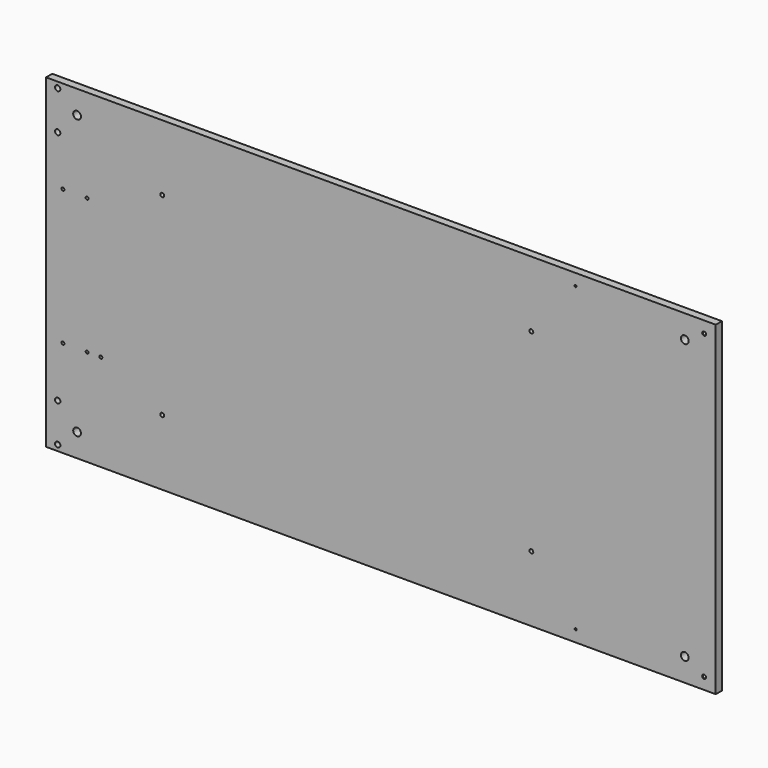
from build123d import *

# Parameters (mm, degrees)
F0_W     = 1098.042
F0_H     = 533.4
F1_DEPTH = 12.6492
F3_D     = 6.35
F3_DEPTH = 1.524
F3_TIP   = 1.9077324654
F4_R     = 6.35
F4_R_2   = 3.175
F4_R_3   = 2.413
F4_R_4   = 4.3688
F5_DEPTH = 25.4


with BuildPart() as f1:
    # F0 (on Front) → F1 (new body)
    with BuildSketch(Plane.XZ):
        with Locations((549.021, 266.7)):
            Rectangle(F0_W, F0_H)
    extrude(amount=F1_DEPTH)

    # F3
    with Locations(Plane.XZ.offset(12.6492)):
        with Locations((1078.992, 514.35), (1078.992, 19.05)):
            Hole(F3_D / 2, depth=F3_DEPTH)
            with Locations((0, 0, -(F3_DEPTH + F3_TIP / 2))):  # 118° drill point
                Cone(0, F3_D / 2, F3_TIP, mode=Mode.SUBTRACT)

    # F4 (on face) → F5 (cut)
    with BuildSketch(Plane(origin=(0, 0, 0), x_dir=(-1, 0, 0), z_dir=(0, 1, 0))):
        with BuildLine():
            ThreePointArc((-866.5083, 19.05), (-868.172, 20.7137), (-869.8357, 19.05))
            ThreePointArc((-869.8357, 19.05), (-868.172, 17.3863), (-866.5083, 19.05))
        make_face()
        with BuildLine():
            ThreePointArc((-792.48, 107.95), (-795.655, 111.125), (-798.83, 107.95))
            ThreePointArc((-798.83, 107.95), (-795.655, 104.775), (-792.48, 107.95))
        make_face()
        with BuildLine():
            ThreePointArc((-1040.892, 38.1), (-1047.242, 44.45), (-1053.592, 38.1))
            ThreePointArc((-1053.592, 38.1), (-1047.242, 31.75), (-1040.892, 38.1))
        make_face()
        with BuildLine():
            ThreePointArc((-866.5083, 514.35), (-868.172, 516.0137), (-869.8357, 514.35))
            ThreePointArc((-869.8357, 514.35), (-868.172, 512.6863), (-866.5083, 514.35))
        make_face()
        with BuildLine():
            ThreePointArc((-1040.892, 495.3), (-1047.242, 501.65), (-1053.592, 495.3))
            ThreePointArc((-1053.592, 495.3), (-1047.242, 488.95), (-1040.892, 495.3))
        make_face()
        with BuildLine():
            ThreePointArc((-798.83, 425.45), (-795.655, 422.275), (-792.48, 425.45))
            ThreePointArc((-792.48, 425.45), (-795.655, 428.625), (-798.83, 425.45))
        make_face()
        with Locations((-50.8, 38.1)):
            Circle(F4_R)
        with Locations((-190.5, 107.95)):
            Circle(F4_R_2)
        with Locations((-89.8652, 158.75)):
            Circle(F4_R_3)
        with BuildLine():
            ThreePointArc((-69.6468, 158.75), (-67.2338, 156.337), (-64.8208, 158.75))
            Line((-64.8208, 158.75), (-67.2338, 158.75))
            Line((-67.2338, 158.75), (-69.6468, 158.75))
        make_face()
        with BuildLine():
            Line((-67.2338, 158.75), (-64.8208, 158.75))
            ThreePointArc((-64.8208, 158.75), (-67.2338, 161.163), (-69.6468, 158.75))
            Line((-69.6468, 158.75), (-67.2338, 158.75))
        make_face()
        with BuildLine():
            ThreePointArc((-30.0228, 158.75), (-27.6098, 156.337), (-25.1968, 158.75))
            Line((-25.1968, 158.75), (-27.6098, 158.75))
            Line((-27.6098, 158.75), (-30.0228, 158.75))
        make_face()
        with BuildLine():
            Line((-27.6098, 158.75), (-25.1968, 158.75))
            ThreePointArc((-25.1968, 158.75), (-27.6098, 161.163), (-30.0228, 158.75))
            Line((-30.0228, 158.75), (-27.6098, 158.75))
        make_face()
        with BuildLine():
            ThreePointArc((-14.6812, 9.525), (-22.1392081056, 12.6142081056), (-19.05, 5.1562))
            ThreePointArc((-19.05, 5.1562), (-15.9607918944, 6.4357918944), (-14.6812, 9.525))
        make_face()
        with Locations((-50.8, 495.3)):
            Circle(F4_R)
        with BuildLine():
            ThreePointArc((-14.6812, 523.875), (-15.9607918944, 526.9642081056), (-19.05, 528.2438))
            ThreePointArc((-19.05, 528.2438), (-22.1392081056, 520.7857918944), (-14.6812, 523.875))
        make_face()
        with Locations((-190.5, 425.45)):
            Circle(F4_R_2)
        with Locations((-19.05, 460.375)):
            Circle(F4_R_4)
        with BuildLine():
            ThreePointArc((-67.2338, 378.587), (-65.527551337, 379.293751337), (-64.8208, 381))
            ThreePointArc((-64.8208, 381), (-68.940048663, 382.706248663), (-67.2338, 378.587))
        make_face()
        with BuildLine():
            ThreePointArc((-27.6098, 378.587), (-25.903551337, 379.293751337), (-25.1968, 381))
            ThreePointArc((-25.1968, 381), (-29.316048663, 382.706248663), (-27.6098, 378.587))
        make_face()
        with Locations((-19.05, 73.025)):
            Circle(F4_R_4)
    extrude(amount=-F5_DEPTH, mode=Mode.SUBTRACT)


solid = f1.part
